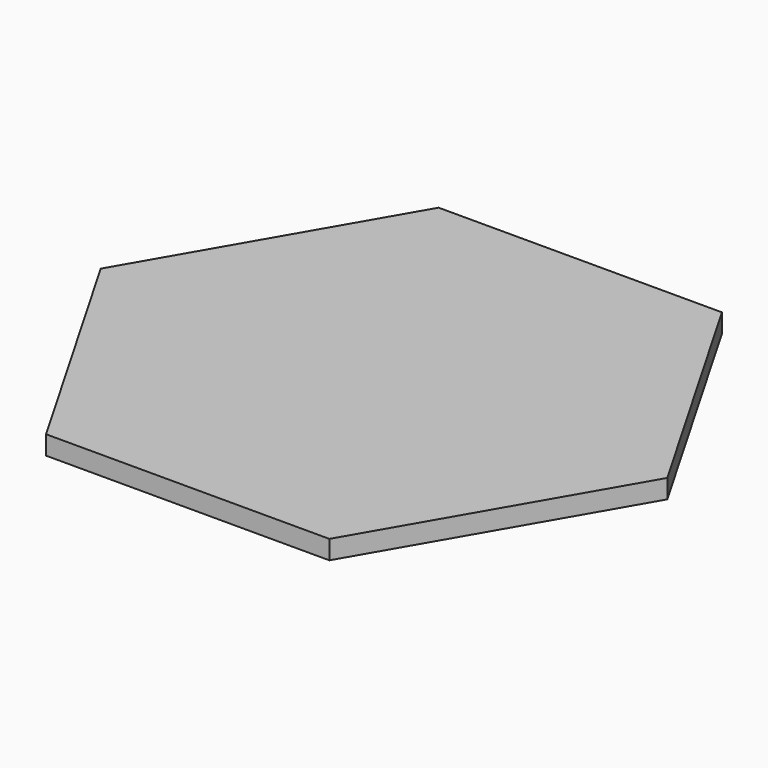
from build123d import *

# Parameters (mm, degrees)
PAD_DEPTH     = 2
SKETCH001_R   = 8
SKETCH001_R_2 = 5.08
PAD001_DEPTH  = 3.175
FILLET_R      = 2
PAD002_DEPTH  = 1.5


with BuildPart() as part:
    # Sketch → Pad (new body)
    with BuildSketch(Plane(origin=(0, 0, 0), x_dir=(1, 0, 0), z_dir=(0, 0, -1))):
        Polygon((30, 0), (15, 25.980762), (-15, 25.980762), (-30, 0), (-15, -25.980762), (15, -25.980762), align=None)
    extrude(amount=PAD_DEPTH)

    # Sketch001 → Pad001 (new body)
    with BuildSketch(Plane(origin=(0, 0, -2), x_dir=(1, 0, 0), z_dir=(0, 0, -1))):
        Circle(SKETCH001_R)
        Circle(SKETCH001_R_2, mode=Mode.SUBTRACT)
    extrude(amount=PAD001_DEPTH)

    # Fillet
    fillet_edges = [part.edges().sort_by_distance(p)[0] for p in [
        (-8, 0, -2),
    ]]
    fillet(fillet_edges, radius=FILLET_R)

    # Sketch002 → Pad002 (new body)
    with BuildSketch(Plane(origin=(0, 0, -2), x_dir=(1, 0, 0), z_dir=(0, 0, -1))):
        Polygon((12.690599, -21.980762), (25.381198, 0), (12.690599, 21.980762), (-12.690599, 21.980762), (-25.381198, 0), (-12.690599, -21.980762), align=None)
        Polygon((11.535898, -19.980762), (23.071797, 0), (11.535898, 19.980762), (-11.535898, 19.980762), (-23.071797, 0), (-11.535898, -19.980762), align=None, mode=Mode.SUBTRACT)
    extrude(amount=PAD002_DEPTH)


solid = part.part
